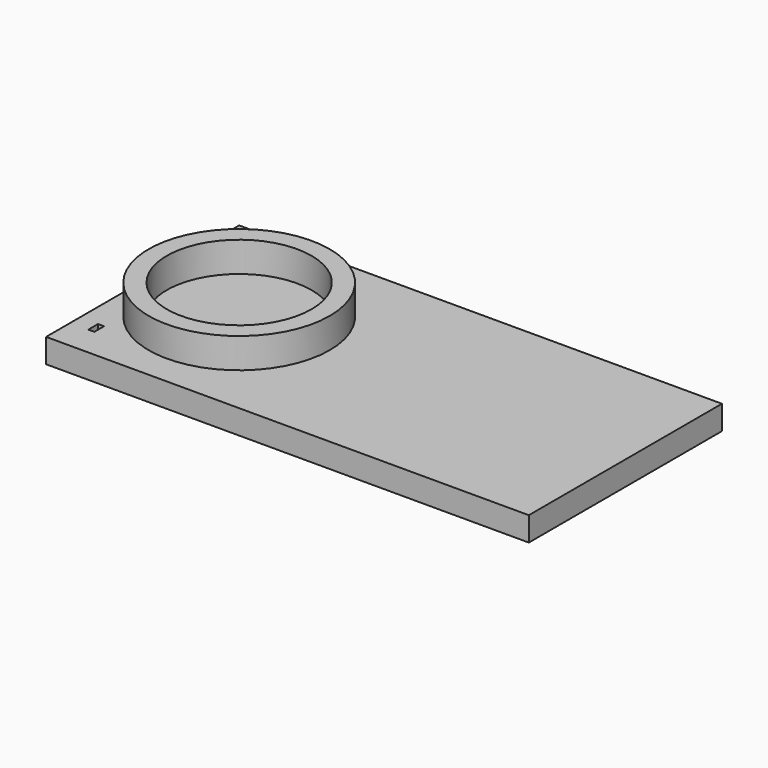
from build123d import *

# Parameters (mm, degrees)
F0_W     = 400
F0_H     = 200
F1_DEPTH = 20
F2_R     = 75
F2_R_2   = 60
F3_DEPTH = 25
F4_W     = 5
F4_H     = 10
F5_DEPTH = 10


with BuildPart() as f1:
    # F0 (on Top) → F1 (new body)
    with BuildSketch(Plane.XY):
        Rectangle(F0_W, F0_H)
    extrude(amount=F1_DEPTH)

    # F2 (on face) → F3 (join)
    with BuildSketch(Plane.XY.offset(20)):
        with Locations((-120, 0)):
            Circle(F2_R)
        with Locations((-120, 0)):
            Circle(F2_R_2, mode=Mode.SUBTRACT)
    extrude(amount=F3_DEPTH)

    # F4 (on face) → F5 (cut)
    with BuildSketch(Plane.XY.offset(20)):
        with Locations((-182.5, -70)):
            Rectangle(F4_W, F4_H)
    extrude(amount=-F5_DEPTH, mode=Mode.SUBTRACT)


solid = f1.part
